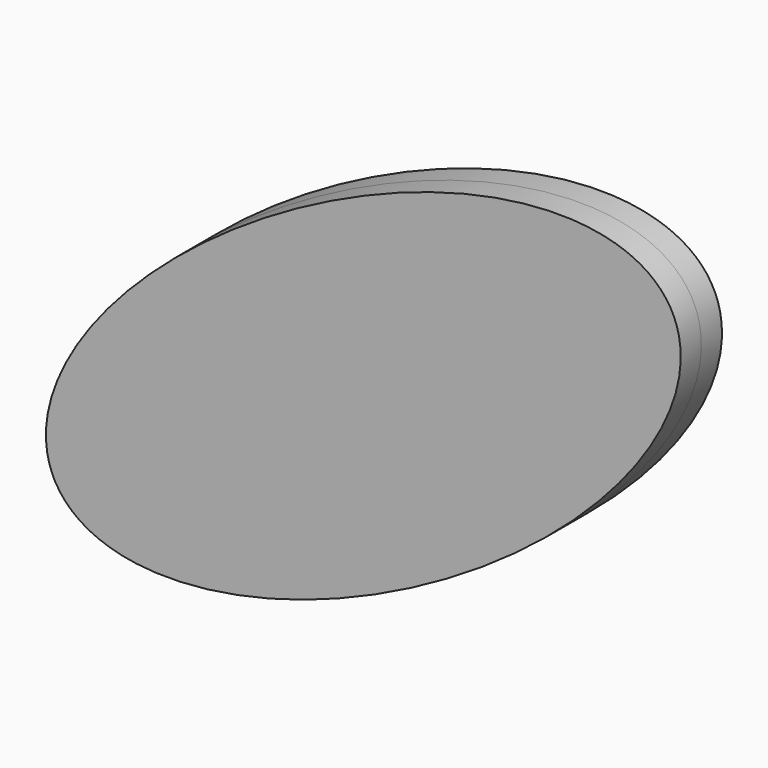
from build123d import *

# Parameters (mm, degrees)
F1_DEPTH = 12.7


with BuildPart() as f1:
    # F0 (on Front) → F1 (new body, symmetric)
    with BuildSketch(Plane.XZ):
        with BuildLine():
            add(Edge.make_bspline(
                [(8.651406, 32.476246), (75.674724, -84.07386), (269.344805, 104.844353), (463.014886, 293.762565), (202.321487, 221.394459), (-58.371913, 149.026352), (8.651406, 32.476246)],
                knots=[0, 0, 0, 2.094395, 2.094395, 4.18879, 4.18879, 6.283185, 6.283185, 6.283185], degree=2, weights=[1, 0.5, 1, 0.5, 1, 0.5, 1]))
        make_face()
    extrude(amount=F1_DEPTH, both=True)


solid = f1.part
